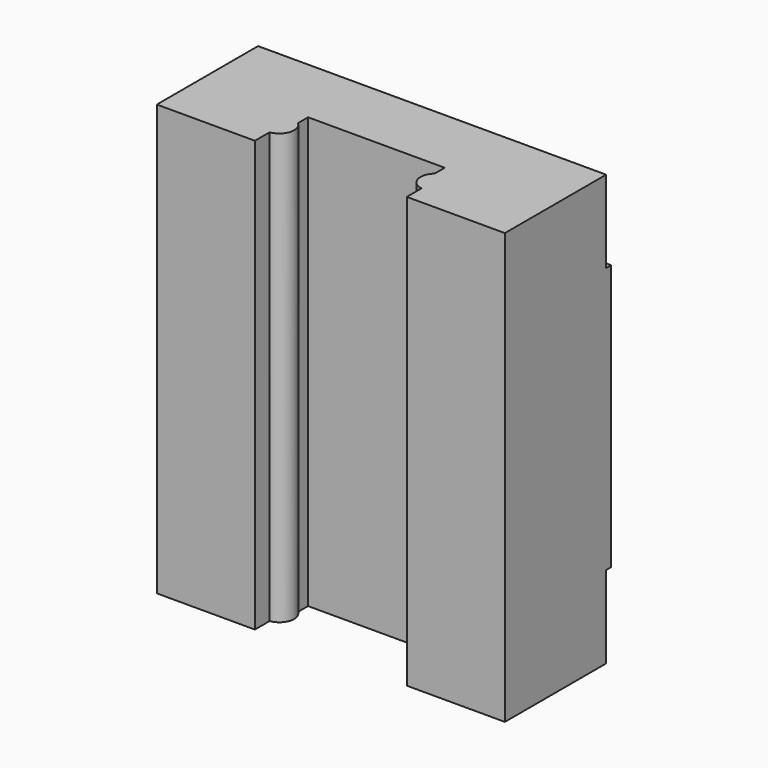
from build123d import *

# Parameters (mm, degrees)
F0_W          = 7
F0_H          = 6.5
F0_W_2        = 13.5
F0_H_2        = 21
F0_R          = 1.2
F1_DEPTH      = 10
F1_FACE_W     = 27.5
F1_FACE_H     = 34
F2_DEPTH      = 0.5
F3_DEPTH      = 1
F4_DEPTH      = 8
F4_DEPTH_BACK = 1
F6_DEPTH      = 34.001


with BuildPart() as f1:
    # F0 (on Front) → F1 (new body)
    with BuildSketch(Plane.XZ):
        with Locations((-49.9074855894, 34.1609876885)):
            Rectangle(F0_W, F0_H)
        with Locations((-39.6574855894, 34.1609876885)):
            Rectangle(F0_W_2, F0_H)
        with Locations((-49.9074855894, 20.4109876885)):
            Rectangle(F0_W, F0_H_2)
        with Locations((-49.6574855894, 12.9109876885)):
            Circle(F0_R, mode=Mode.SUBTRACT)
        with Locations((-49.6574855894, 27.9109876885)):
            Circle(F0_R, mode=Mode.SUBTRACT)
        with Locations((-29.4074855894, 34.1609876885)):
            Rectangle(F0_W, F0_H)
        with Locations((-49.9074855894, 6.6609876885)):
            Rectangle(F0_W, F0_H)
        with Locations((-29.4074855894, 20.4109876885)):
            Rectangle(F0_W, F0_H_2)
        with Locations((-29.6574855894, 12.9109876885)):
            Circle(F0_R, mode=Mode.SUBTRACT)
        with Locations((-29.6574855894, 27.9109876885)):
            Circle(F0_R, mode=Mode.SUBTRACT)
        with Locations((-39.6574855894, 6.6609876885)):
            Rectangle(F0_W_2, F0_H)
        with Locations((-29.4074855894, 6.6609876885)):
            Rectangle(F0_W, F0_H)
        with Locations((-39.6574855894, 20.4109876885)):
            Rectangle(F0_W_2, F0_H_2)
        with Locations((-49.6574855894, 27.9109876885)):
            Circle(F0_R)
        with Locations((-49.6574855894, 12.9109876885)):
            Circle(F0_R)
        with Locations((-29.6574855894, 12.9109876885)):
            Circle(F0_R)
        with Locations((-29.6574855894, 27.9109876885)):
            Circle(F0_R)
    extrude(amount=F1_DEPTH)

    # F0 (on Front) + F1_face (on face) → F2 (join)
    with BuildSketch(Plane.XZ):
        with Locations((-49.9074855894, 34.1609876885)):
            Rectangle(F0_W, F0_H)
        with Locations((-39.6574855894, 34.1609876885)):
            Rectangle(F0_W_2, F0_H)
        with Locations((-49.9074855894, 20.4109876885)):
            Rectangle(F0_W, F0_H_2)
        with Locations((-49.6574855894, 12.9109876885)):
            Circle(F0_R, mode=Mode.SUBTRACT)
        with Locations((-49.6574855894, 27.9109876885)):
            Circle(F0_R, mode=Mode.SUBTRACT)
        with Locations((-29.4074855894, 34.1609876885)):
            Rectangle(F0_W, F0_H)
        with Locations((-49.9074855894, 6.6609876885)):
            Rectangle(F0_W, F0_H)
        with Locations((-29.4074855894, 20.4109876885)):
            Rectangle(F0_W, F0_H_2)
        with Locations((-29.6574855894, 12.9109876885)):
            Circle(F0_R, mode=Mode.SUBTRACT)
        with Locations((-29.6574855894, 27.9109876885)):
            Circle(F0_R, mode=Mode.SUBTRACT)
        with Locations((-39.6574855894, 6.6609876885)):
            Rectangle(F0_W_2, F0_H)
        with Locations((-29.4074855894, 6.6609876885)):
            Rectangle(F0_W, F0_H)
        with Locations((-29.6574855894, 27.9109876885)):
            Circle(F0_R)
        with Locations((-49.6574855894, 27.9109876885)):
            Circle(F0_R)
        with Locations((-49.6574855894, 12.9109876885)):
            Circle(F0_R)
        with Locations((-29.6574855894, 12.9109876885)):
            Circle(F0_R)
    with BuildSketch(Plane(origin=(-39.6574855894, -10, 20.4109876885), x_dir=(1, 0, 0), z_dir=(0, -1, 0))):
        Rectangle(F1_FACE_W, F1_FACE_H)
    extrude(amount=-F2_DEPTH)

    # F0 (on Front) → F3 (cut)
    with BuildSketch(Plane.XZ):
        with Locations((-29.4074855894, 34.1609876885)):
            Rectangle(F0_W, F0_H)
        with Locations((-39.6574855894, 34.1609876885)):
            Rectangle(F0_W_2, F0_H)
        with Locations((-49.9074855894, 34.1609876885)):
            Rectangle(F0_W, F0_H)
        with Locations((-49.9074855894, 6.6609876885)):
            Rectangle(F0_W, F0_H)
        with Locations((-39.6574855894, 6.6609876885)):
            Rectangle(F0_W_2, F0_H)
        with Locations((-29.4074855894, 6.6609876885)):
            Rectangle(F0_W, F0_H)
    extrude(amount=-F3_DEPTH, mode=Mode.SUBTRACT)

    # F0 (on Front) → F4 (cut, two sides)
    with BuildSketch(Plane.XZ) as f4_sk:
        with Locations((-29.6574855894, 27.9109876885)):
            Circle(F0_R)
        with Locations((-29.6574855894, 12.9109876885)):
            Circle(F0_R)
        with Locations((-49.6574855894, 12.9109876885)):
            Circle(F0_R)
        with Locations((-49.6574855894, 27.9109876885)):
            Circle(F0_R)
    extrude(amount=F4_DEPTH, mode=Mode.SUBTRACT)
    extrude(f4_sk.sketch, amount=-F4_DEPTH_BACK, mode=Mode.SUBTRACT)

    # F5 (on face) → F6 (cut, through all)
    with BuildSketch(Plane(origin=(0, 0, 3.4109876885), x_dir=(1, 0, 0), z_dir=(0, 0, -1))):
        with BuildLine():
            Line((-33.6574855894, 8.5455439207), (-33.6574855894, 10))
            Line((-33.6574855894, 10), (-45.6574855894, 10))
            Line((-45.6574855894, 10), (-45.6574855894, 8.5455439207))
            ThreePointArc((-45.6574855894, 8.5455439207), (-44.6894279438, 7.7187269742), (-45.0574855894, 6.5))
            Line((-45.0574855894, 6.5), (-45.0574855894, 5.5))
            Line((-45.0574855894, 5.5), (-34.2574855894, 5.5))
            Line((-34.2574855894, 5.5), (-34.2574855894, 6.5))
            ThreePointArc((-34.2574855894, 6.5), (-34.6099684918, 7.7141585825), (-33.6574855894, 8.5455439207))
        make_face()
    extrude(amount=-F6_DEPTH, mode=Mode.SUBTRACT)


solid = f1.part
